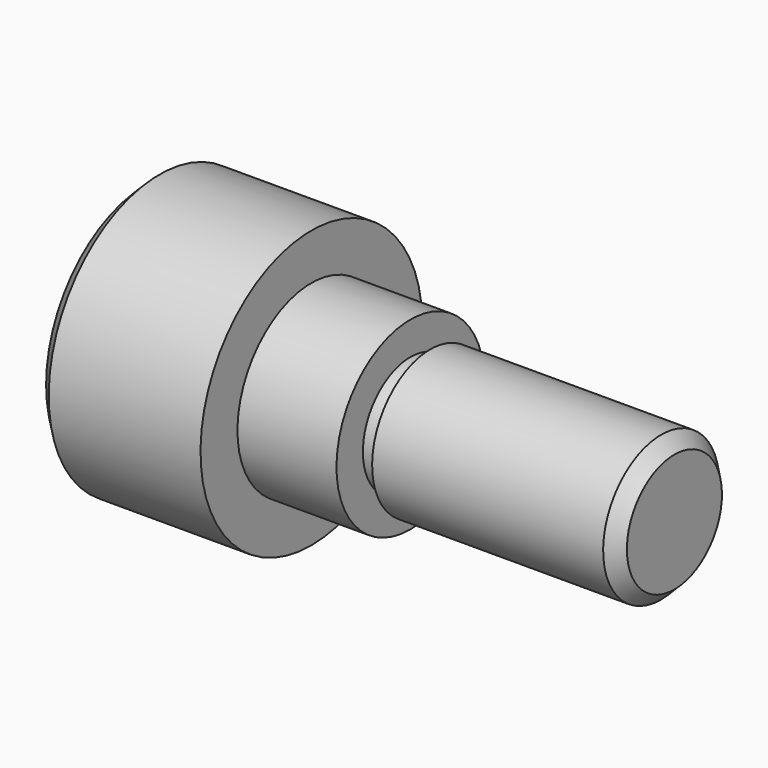
from build123d import *

# Parameters (mm, degrees)
F2_SIZE2 = 2
F2_SIZE  = 2


with BuildPart() as f1:
    # F0 (on Front) → F1 (revolve)
    with BuildSketch(Plane.XZ):
        Polygon((-80, 0), (-80, -21), (-55, -21), (-55, -14), (-40, -14), (-40, -9), (-37, -9), (-37, -11), (0, -11), (0, 0), align=None)
    revolve(axis=Axis((-40, 0, 0), (-1, 0, 0)))

    # F2
    f2_edges = [f1.edges().sort_by_distance(p)[0] for p in [
        (0, 0, 11),
        (-80, 0, 21),
    ]]
    chamfer(f2_edges, length=F2_SIZE, length2=F2_SIZE2)


solid = f1.part
